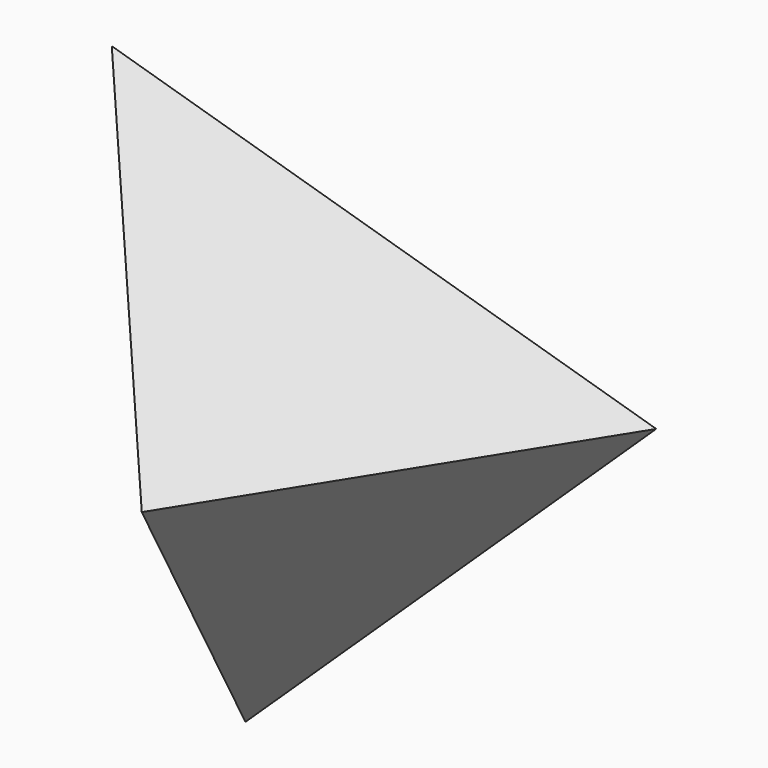
from build123d import *


with BuildPart() as f3:
    # F0 (on Front) → F3 section 0
    with BuildSketch(Plane.XZ, mode=Mode.PRIVATE) as f3_s0:
        Polygon((32.48147, 7.874727), (-23.060448, 24.192415), (-9.421022, -32.067142), align=None)
    loft([f3_s0.sketch, Vertex(0, -25, 0)])


solid = f3.part
